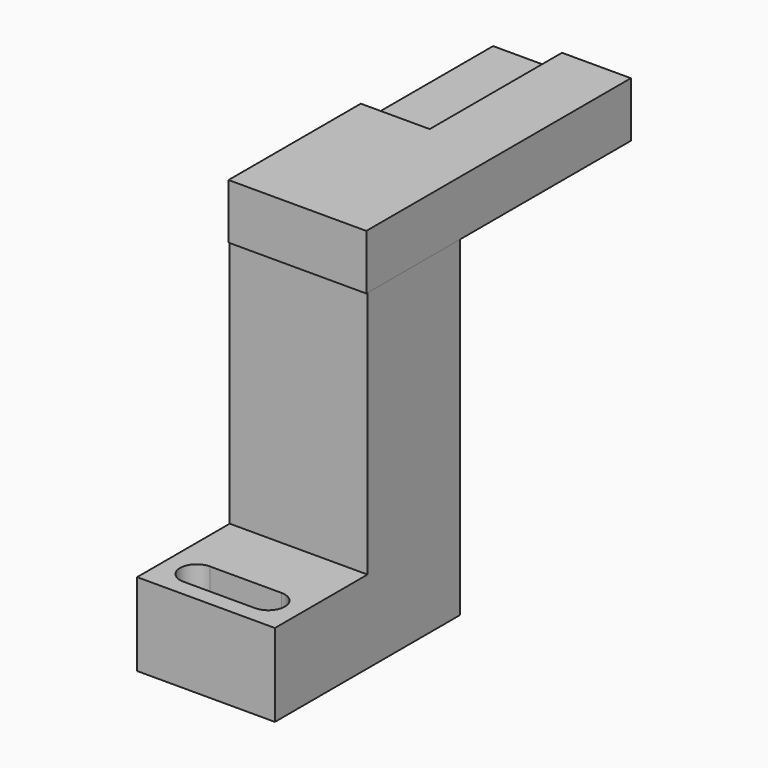
from build123d import *

# Parameters (mm, degrees)
F0_W      = 25
F0_H      = 42
F1_DEPTH  = 60
F2_W      = 25
F2_H      = 21
F3_DEPTH  = 45
F5_DEPTH  = 35
F7_DEPTH  = 11
F9_W      = 25
F9_H      = 60
F10_DEPTH = 10
F11_W     = 12.5
F11_H     = 30
F12_DEPTH = 3


with BuildPart() as f1:
    # F0 (on Top) → F1 (new body)
    with BuildSketch(Plane.XY):
        with Locations((12.5, -21)):
            Rectangle(F0_W, F0_H)
    extrude(amount=F1_DEPTH)

    # F2 (on face) → F3 (cut)
    with BuildSketch(Plane.XY.offset(60)):
        with Locations((12.5, -31.5)):
            Rectangle(F2_W, F2_H)
    extrude(amount=-F3_DEPTH, mode=Mode.SUBTRACT)

    # F4 (on face) → F5 (cut)
    with BuildSketch(Plane(origin=(0, 0, 0), x_dir=(1, 0, 0), z_dir=(0, 0, -1))):
        with BuildLine():
            Line((19, 38), (6, 38))
            ThreePointArc((6, 38), (4, 36), (6, 34))
            Line((6, 34), (19, 34))
            ThreePointArc((19, 34), (21, 36), (19, 38))
        make_face()
    extrude(amount=-F5_DEPTH, mode=Mode.SUBTRACT)

    # F6 (on face) → F7 (cut)
    with BuildSketch(Plane.XY.offset(15)):
        with BuildLine():
            ThreePointArc((6, -33), (3, -36), (6, -39))
            Line((6, -39), (19, -39))
            ThreePointArc((19, -39), (22, -36), (19, -33))
            Line((19, -33), (6, -33))
        make_face()
    extrude(amount=-F7_DEPTH, mode=Mode.SUBTRACT)


with BuildPart() as f10:
    # F9 (on offset) → F10 (new body)
    with BuildSketch(Plane.XY.offset(60)):
        with Locations((12.5, 8.733432)):
            Rectangle(F9_W, F9_H)
    extrude(amount=F10_DEPTH)

    # F11 (on face) → F12 (cut)
    with BuildSketch(Plane.XY.offset(70)):
        with Locations((6.25, 23.733432)):
            Rectangle(F11_W, F11_H)
    extrude(amount=-F12_DEPTH, mode=Mode.SUBTRACT)


solid = Compound([f1.part, f10.part])
